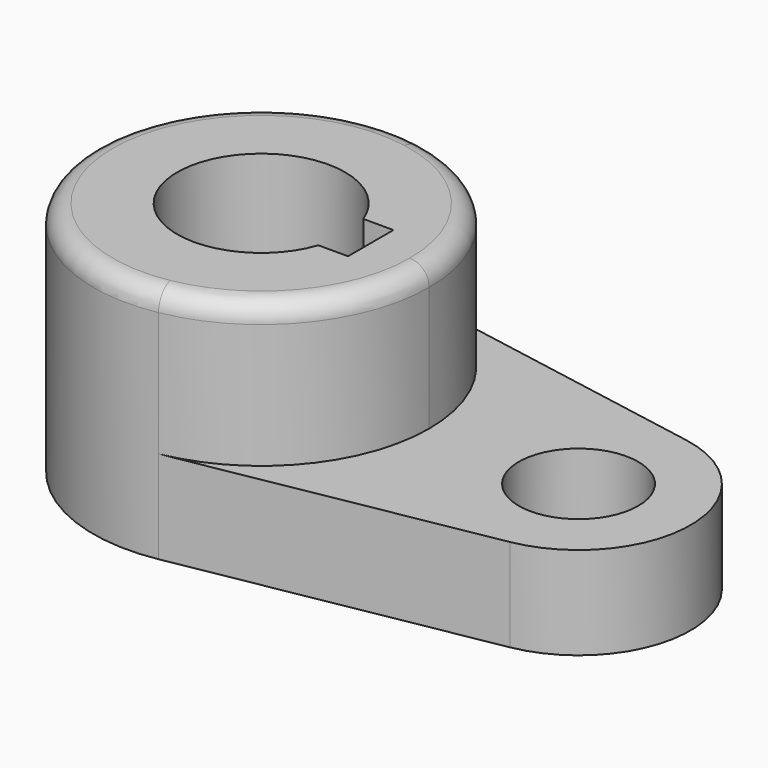
from build123d import *

# Parameters (mm, degrees)
F0_R     = 10.16
F1_DEPTH = 15.7734
F2_DEPTH = 40.2336
F3_R     = 3.302


with BuildPart() as f1:
    # F0 (on Top) → F1 (new body)
    with BuildSketch(Plane.XY):
        with BuildLine():
            ThreePointArc((5.042647, 28.126541), (21.916025, 18.336262), (28.575, 0))
            ThreePointArc((28.575, 0), (21.916025, -18.336262), (5.042647, -28.126541))
            Line((5.042647, -28.126541), (57.336765, -18.751028))
            ThreePointArc((57.336765, -18.751028), (73.025, 0), (57.336765, 18.751028))
            Line((57.336765, 18.751028), (5.042647, 28.126541))
        make_face()
        with Locations((53.975, 0)):
            Circle(F0_R, mode=Mode.SUBTRACT)
    extrude(amount=F1_DEPTH)

    # F0 (on Top) → F2 (join)
    with BuildSketch(Plane.XY):
        with BuildLine():
            ThreePointArc((5.042647, -28.126541), (21.916025, -18.336262), (28.575, 0))
            ThreePointArc((28.575, 0), (21.916025, 18.336262), (5.042647, 28.126541))
            ThreePointArc((5.042647, 28.126541), (-28.575, 0), (5.042647, -28.126541))
        make_face()
        with BuildLine():
            ThreePointArc((13.494358, -4.694139), (-14.286813, -0.140095), (13.399712, 4.957861))
            Line((13.399712, 4.957861), (18.5293, 4.957861))
            Line((18.5293, 4.957861), (18.5293, -4.694139))
            Line((18.5293, -4.694139), (13.494358, -4.694139))
        make_face(mode=Mode.SUBTRACT)
    extrude(amount=F2_DEPTH)

    # F3
    f3_edges = [f1.edges().sort_by_distance(p)[0] for p in [
        (-5.042647, 28.126541, 40.2336),
    ]]
    fillet(f3_edges, radius=F3_R)


solid = f1.part
